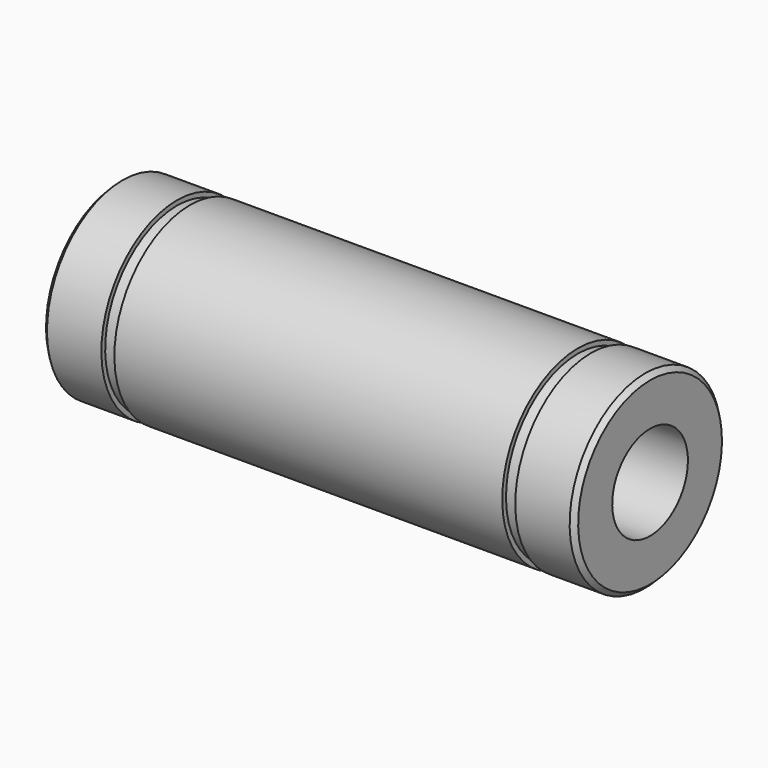
from build123d import *


with BuildPart() as f1:
    # F0 (on Front) → F1 (revolve)
    with BuildSketch(Plane.XZ):
        Polygon((16.4, 8), (0, 8), (-16.4, 8), (-16.4, 7.6), (-17.5, 7.6), (-17.5, 8), (-22.1, 8), (-22.5, 7.6), (-22.5, 4), (0, 4), (22.5, 4), (22.5, 7.6), (22.1, 8), (17.5, 8), (17.5, 7.6), (16.4, 7.6), align=None)
    revolve(axis=Axis((5.405286, 0, 0), (1, 0, 0)))


solid = f1.part
